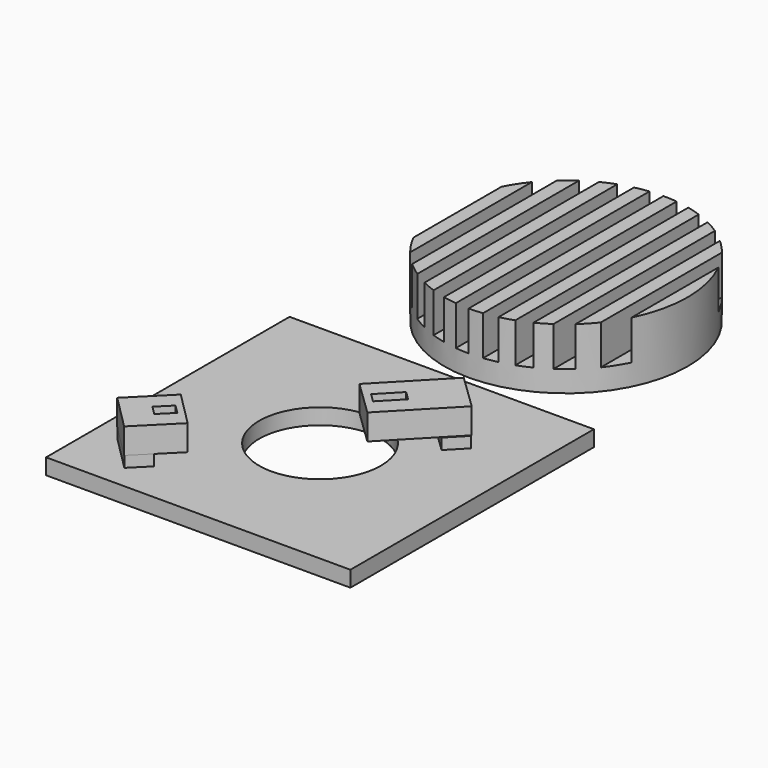
from build123d import *

# Parameters (mm, degrees)
SKETCH001_W                               = 2.23349
SKETCH001_H                               = 39.923653
SKETCH001_W_2                             = 2.233494
SKETCH001_H_2                             = 40.016715
SKETCH001_W_3                             = 2.204327
SKETCH001_H_3                             = 40.844541
SKETCH001_W_4                             = 2.233492
SKETCH001_H_4                             = 40.109777
SKETCH001_W_5                             = 2.233491
EXTRUDE_DEPTH                             = 6.5
CYLINDER001_R                             = 20
CYLINDER001_DEPTH                         = 10
CUT001_PLACEMENT_ANGLE                    = 180
SKETCH005_AS_DRAWN_W                      = 2.018315
SKETCH005_AS_DRAWN_H                      = 4.540272
EXTRUDE002_DEPTH                          = 4.5
EXTRUDE002_ONTO_SKETCH005_PLACEMENT_ANGLE = 136
BOX004_W                                  = 8
BOX004_H                                  = 13.5
BOX004_DEPTH                              = 4.2
BOX004_PLACEMENT_ANGLE                    = 136
BOX002_W                                  = 8
BOX002_H                                  = 3.8
BOX002_DEPTH                              = 1.8
BOX002_PLACEMENT_ANGLE                    = 136
SKETCH006_AS_DRAWN_W                      = 2.0548
SKETCH006_AS_DRAWN_H                      = 2.98173
EXTRUDE003_DEPTH                          = 4.5
EXTRUDE003_ONTO_SKETCH006_PLACEMENT_ANGLE = 135
BOX003_W                                  = 8
BOX003_H                                  = 8.2
BOX003_DEPTH                              = 4.2
BOX003_PLACEMENT_ANGLE                    = 135
BOX001_W                                  = 8
BOX001_H                                  = 3.8
BOX001_DEPTH                              = 1.8
BOX001_PLACEMENT_ANGLE                    = 135
CYLINDER_R                                = 10
CYLINDER_DEPTH                            = 2.6
BOX_W                                     = 50
BOX_H                                     = 50
BOX_DEPTH                                 = 2.6
SKETCH002_R                               = 4
SKETCH002_R_2                             = 3
EXTRUDE001_DEPTH                          = 4


with BuildPart() as extrude_body:
    # Sketch001 (on Cylinder) → Extrude (new body)
    with BuildSketch(Plane(origin=(25.88, -24.43, 1.58), x_dir=(1, 0, 0), z_dir=(0, 0, 1))):
        with Locations((3.379402, 0.007826)):
            Rectangle(SKETCH001_W, SKETCH001_H)
        with Locations((7.846387, 0.007826)):
            Rectangle(SKETCH001_W_2, SKETCH001_H)
        with Locations((12.313369, 0.054358)):
            Rectangle(SKETCH001_W, SKETCH001_H_2)
        with Locations((16.780351, 0.054358)):
            Rectangle(SKETCH001_W_2, SKETCH001_H_2)
        with Locations((-1.102163, -0.266493)):
            Rectangle(SKETCH001_W_3, SKETCH001_H_3)
        with Locations((-5.554563, 0.100888)):
            Rectangle(SKETCH001_W_4, SKETCH001_H_4)
        with Locations((-10.021547, 0.054358)):
            Rectangle(SKETCH001_W_4, SKETCH001_H_2)
        with Locations((-14.48853, 0.054358)):
            Rectangle(SKETCH001_W_4, SKETCH001_H_2)
        with Locations((-18.955512, 0.100888)):
            Rectangle(SKETCH001_W_5, SKETCH001_H_4)
    extrude(amount=EXTRUDE_DEPTH)


with BuildPart() as cut001:
    # Cylinder001 → Cylinder001 (new body)
    with BuildSketch(Plane(origin=(25.88, -24.43, 1.58), x_dir=(1, 0, 0), z_dir=(0, 0, 1))):
        Circle(CYLINDER001_R)
    extrude(amount=CYLINDER001_DEPTH)

    # Cut001: cut Extrude body
    add(extrude_body.part, mode=Mode.SUBTRACT)


with BuildPart() as cut001_1:
    # Cut001 placement: moved
    add(cut001.part.moved(Location((0, 50, 12))).rotate(Axis((0, 50, 12), (1, 0, 0)), CUT001_PLACEMENT_ANGLE))


with BuildPart() as extrude002:
    # Sketch005 as drawn → Extrude002 (new)
    with BuildSketch(Plane.XY):
        with Locations((3.98714, 10.110961)):
            Rectangle(SKETCH005_AS_DRAWN_W, SKETCH005_AS_DRAWN_H)
    extrude(amount=EXTRUDE002_DEPTH)


with BuildPart() as extrude002_1:
    # Extrude002 onto Sketch005 placement: moved
    add(extrude002.part.moved(Location((47.02, 42.01, 12.52))).rotate(Axis((47.02, 42.01, 12.52), (0, 0, 1)), EXTRUDE002_ONTO_SKETCH005_PLACEMENT_ANGLE))


with BuildPart() as extrude002_2:
    # Extrude002 placement: moved
    add(extrude002_1.part.moved(Location((0, 0, -4.5))))


with BuildPart() as cut003:
    # Box004 → Box004 (new body)
    with BuildSketch(Plane.XY):
        with Locations((4, 6.75)):
            Rectangle(BOX004_W, BOX004_H)
    extrude(amount=BOX004_DEPTH)


with BuildPart() as cut003_1:
    # Box004 placement: moved
    add(cut003.part.moved(Location((47.02, 42.01, 8.32))).rotate(Axis((47.02, 42.01, 8.32), (0, 0, 1)), BOX004_PLACEMENT_ANGLE))

    # Cut003: cut Extrude002
    add(extrude002_2.part, mode=Mode.SUBTRACT)


with BuildPart() as cut003_2:
    # Cut003 placement: moved
    add(cut003_1.part.moved(Location((-5.975619, -5.901068, -3.867182))))


with BuildPart() as fusion:
    # Box002 → Box002 (new body)
    with BuildSketch(Plane.XY):
        with Locations((4, 1.9)):
            Rectangle(BOX002_W, BOX002_H)
    extrude(amount=BOX002_DEPTH)


with BuildPart() as fusion_1:
    # Box002 placement: moved
    add(fusion.part.moved(Location((41, 36, 2.6))).rotate(Axis((41, 36, 2.6), (0, 0, 1)), BOX002_PLACEMENT_ANGLE))

    # Fusion: union Cut003
    add(cut003_2.part)


with BuildPart() as extrude003:
    # Sketch006 as drawn → Extrude003 (new)
    with BuildSketch(Plane.XY):
        with Locations((4.015499, 2.494238)):
            Rectangle(SKETCH006_AS_DRAWN_W, SKETCH006_AS_DRAWN_H)
    extrude(amount=EXTRUDE003_DEPTH)


with BuildPart() as extrude003_1:
    # Extrude003 onto Sketch006 placement: moved
    add(extrude003.part.moved(Location((15.55, 9.66, 12.99))).rotate(Axis((15.55, 9.66, 12.99), (0, 0, 1)), EXTRUDE003_ONTO_SKETCH006_PLACEMENT_ANGLE))


with BuildPart() as extrude003_2:
    # Extrude003 placement: moved
    add(extrude003_1.part.moved(Location((0, 0, -4.5))))


with BuildPart() as cut004:
    # Box003 → Box003 (new body)
    with BuildSketch(Plane.XY):
        with Locations((4, 4.1)):
            Rectangle(BOX003_W, BOX003_H)
    extrude(amount=BOX003_DEPTH)


with BuildPart() as cut004_1:
    # Box003 placement: moved
    add(cut004.part.moved(Location((15.55, 9.66, 8.79))).rotate(Axis((15.55, 9.66, 8.79), (0, 0, 1)), BOX003_PLACEMENT_ANGLE))

    # Cut004: cut Extrude003
    add(extrude003_2.part, mode=Mode.SUBTRACT)


with BuildPart() as cut004_2:
    # Cut004 placement: moved
    add(cut004_1.part.moved(Location((-0.080851, 0.078243, -4.376037))))


with BuildPart() as fusion001:
    # Box001 → Box001 (new body)
    with BuildSketch(Plane.XY):
        with Locations((4, 1.9)):
            Rectangle(BOX001_W, BOX001_H)
    extrude(amount=BOX001_DEPTH)


with BuildPart() as fusion001_1:
    # Box001 placement: moved
    add(fusion001.part.moved(Location((12.36, 6.67, 2.6))).rotate(Axis((12.36, 6.67, 2.6), (0, 0, 1)), BOX001_PLACEMENT_ANGLE))

    # Fusion001: union Cut004
    add(cut004_2.part)


with BuildPart() as cylinder:
    # Cylinder → Cylinder (new body)
    with BuildSketch(Plane(origin=(25, 25, 0), x_dir=(1, 0, 0), z_dir=(0, 0, 1))):
        Circle(CYLINDER_R)
    extrude(amount=CYLINDER_DEPTH)


with BuildPart() as fusion002:
    # Box → Box (new body)
    with BuildSketch(Plane.XY):
        with Locations((25, 25)):
            Rectangle(BOX_W, BOX_H)
    extrude(amount=BOX_DEPTH)

    # Cut: cut Cylinder
    add(cylinder.part, mode=Mode.SUBTRACT)

    # Fusion002: union Fusion, Fusion001
    add(fusion_1.part)
    add(fusion001_1.part)


with BuildPart() as extrude001:
    # Sketch002 → Extrude001 (new body)
    with BuildSketch(Plane.XY):
        with Locations((25.84182, 74.524612)):
            Circle(SKETCH002_R)
        with Locations((25.84182, 74.524612)):
            Circle(SKETCH002_R_2, mode=Mode.SUBTRACT)
    extrude(amount=EXTRUDE001_DEPTH)


with BuildPart() as extrude001_1:
    # Extrude001 placement: moved
    add(extrude001.part.moved(Location((0, 0, -3.75))))


solid = Compound([cut001_1.part, fusion002.part, extrude001_1.part])
